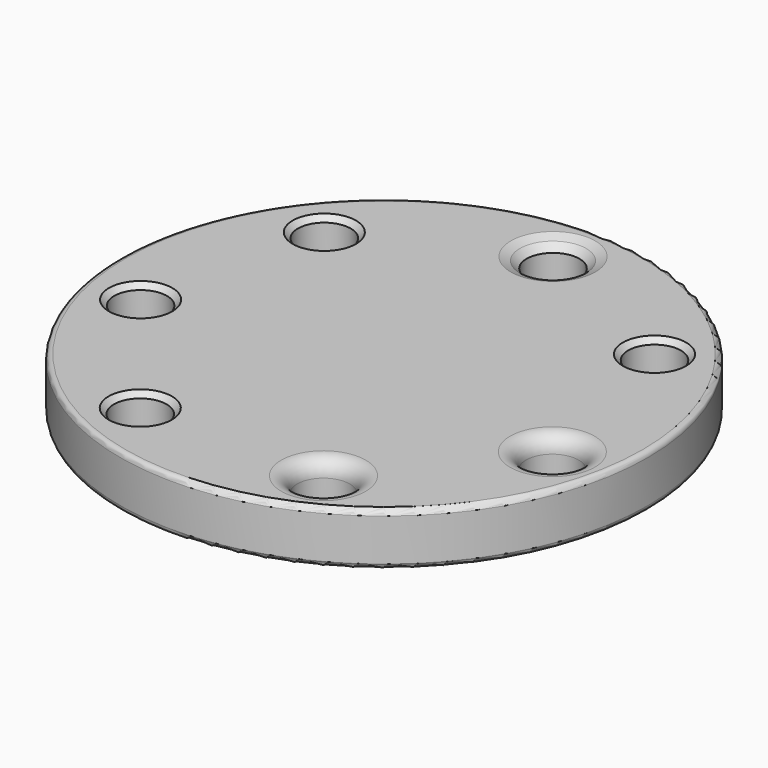
from build123d import *

# Parameters (mm, degrees)
SKETCH_R           = 50
PAD_DEPTH          = 10
SKETCH001_R        = 5
POCKET_DEPTH       = 293.549938
POLARPATTERN_COUNT = 7
FILLET_R           = 1
FILLET001_R        = 3
CHAMFER_SIZE       = 2
CHAMFER001_SIZE    = 1


with BuildPart() as part:
    # Sketch → Pad (new body)
    with BuildSketch(Plane.XY):
        Circle(SKETCH_R)
    extrude(amount=PAD_DEPTH)

    # Sketch001 (on Face3 of Pad) → Pocket (cut, through all)
    with BuildSketch(Plane.XY.offset(10)):
        with Locations((0, 40)):
            Circle(SKETCH001_R)
    pocket = extrude(amount=-POCKET_DEPTH, mode=Mode.SUBTRACT)

    # PolarPattern: Pocket ×7 about axis
    polarpattern_axis = Axis((0, 0, 10), (0, 0, 1))
    for i in range(1, POLARPATTERN_COUNT):
        add(pocket.rotate(polarpattern_axis, i * 360 / POLARPATTERN_COUNT), mode=Mode.SUBTRACT)

    # Fillet
    fillet_edges = [part.edges().sort_by_distance(p)[0] for p in [
        (-50, 0, 10),
        (-50, 0, 0),
    ]]
    fillet(fillet_edges, radius=FILLET_R)

    # Fillet001
    fillet001_edges = [part.edges().sort_by_distance(p)[0] for p in [
        (21.860194, -33.869336, 10),
        (21.860194, -33.869336, 0),
        (40.109721, -4.026198, 0),
        (40.109721, -4.026198, 10),
    ]]
    fillet(fillet001_edges, radius=FILLET001_R)

    # Chamfer
    chamfer_edges = [part.edges().sort_by_distance(p)[0] for p in [
        (-5, 40, 10),
    ]]
    chamfer(chamfer_edges, length=CHAMFER_SIZE)

    # Chamfer001
    chamfer001_edges = [part.edges().sort_by_distance(p)[0] for p in [
        (-7, 40, 10),
        (24.563101, -32.567685, 10),
        (-49, 0, 10),
        (-12.850505, -38.208173, 10),
        (-37.884512, -13.775477, 10),
        (-34.390708, 21.030435, 10),
        (28.15581, 28.848749, 10),
        (40.777284, -1.101414, 10),
    ]]
    chamfer(chamfer001_edges, length=CHAMFER001_SIZE)


solid = part.part
